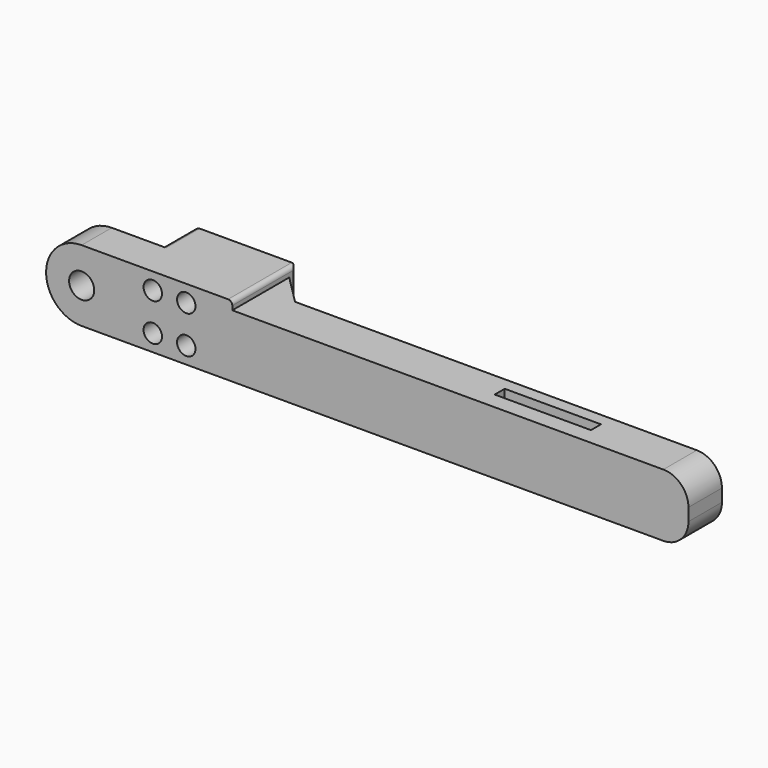
from build123d import *

# Parameters (mm, degrees)
CYLINDER012_R          = 2.2
CYLINDER012_DEPTH      = 26
CYLINDER012_ROLL_ANGLE = -90
ARRAY001_X_COUNT       = 2
ARRAY001_X_PITCH       = 8
ARRAY001_Z_COUNT       = 2
ARRAY001_Z_PITCH       = 9
BOX015_W               = 23
BOX015_H               = 3
BOX015_DEPTH           = 20
BOX011_W               = 130
BOX011_H               = 10
BOX011_DEPTH           = 15
SKETCH003_R            = 3
PAD003_DEPTH           = 9
FILLET003_R            = 1
BOX013_W               = 24
BOX013_H               = 10
BOX013_DEPTH           = 17
FILLET_R               = 1
CHAMFER_SIZE           = 7
FILLET004_R            = 6


with BuildPart() as obj1:
    # Cylinder012 → Cylinder012 (new body)
    with BuildSketch(Plane.XY):
        Circle(CYLINDER012_R)
    extrude(amount=CYLINDER012_DEPTH)


with BuildPart() as obj1_1:
    # Cylinder012 roll: moved
    add(obj1.part.rotate(Axis((0, 0, 0), (1, 0, 0)), CYLINDER012_ROLL_ANGLE))


with BuildPart() as obj1_2:
    # Cylinder012 placement: moved
    add(obj1_1.part.moved(Location((202, 0, 4))))

    # Array001 X: obj1_2


with BuildPart() as obj1_3:
    add(obj1_2.part)
    with Locations(*[(i * ARRAY001_X_PITCH, 0, 0) for i in range(1, ARRAY001_X_COUNT)]):
        add(obj1_2.part)

    # Array001 Z: obj1_2


with BuildPart() as obj1_4:
    add(obj1_3.part)
    with Locations(*[(0, 0, i * ARRAY001_Z_PITCH) for i in range(1, ARRAY001_Z_COUNT)]):
        add(obj1_3.part)


with BuildPart() as obj2:
    # Box015 → Box015 (new body)
    with BuildSketch(Plane(origin=(280.5, 5, 0), x_dir=(1, 0, 0), z_dir=(0, 0, 1))):
        with Locations((11.5, 1.5)):
            Rectangle(BOX015_W, BOX015_H)
    extrude(amount=BOX015_DEPTH)


with BuildPart() as base_tibia:
    # Box011 → Box011 (new body)
    with BuildSketch(Plane(origin=(200, 1.5, 0), x_dir=(1, 0, 0), z_dir=(0, 0, 1))):
        with Locations((65, 5)):
            Rectangle(BOX011_W, BOX011_H)
    extrude(amount=BOX011_DEPTH)


with BuildPart() as obj3:
    # Sketch003 → Pad003 (new body)
    with BuildSketch(Plane(origin=(221, 10.5, 0), x_dir=(1, 0, 0), z_dir=(0, -1, 0))):
        with BuildLine():
            Line((0, 17), (-36, 17))
            ThreePointArc((-36, 17), (-44.500015, 8.5), (-36, 0))
            Line((-36, 0), (0, 0))
            Line((0, 0), (0, 17))
        make_face()
        with Locations((-36.000015, 8.5)):
            Circle(SKETCH003_R, mode=Mode.SUBTRACT)
    extrude(amount=PAD003_DEPTH)

    # Fillet003
    fillet003_edges = [obj3.edges().sort_by_distance(p)[0] for p in [
        (221, 6, 17),
        (221, 6, 0),
    ]]
    fillet(fillet003_edges, radius=FILLET003_R)

    # Fusion008: union Base_tibia
    add(base_tibia.part)


with BuildPart() as obj3_1:
    # Fusion008 placement: moved
    add(obj3.part.moved(Location((0, -0.5, 0))))

    # Cut006: cut obj2
    add(obj2.part, mode=Mode.SUBTRACT)


with BuildPart() as tibia_izquierda_full:
    # Box013 → Box013 (new body)
    with BuildSketch(Plane(origin=(197, 10, 0), x_dir=(1, 0, 0), z_dir=(0, 0, 1))):
        with Locations((12, 5)):
            Rectangle(BOX013_W, BOX013_H)
    extrude(amount=BOX013_DEPTH)

    # Fillet
    fillet_edges = [tibia_izquierda_full.edges().sort_by_distance(p)[0] for p in [
        (197, 15, 17),
        (197, 15, 0),
        (221, 15, 17),
        (221, 20, 8.5),
    ]]
    fillet(fillet_edges, radius=FILLET_R)

    # Fusion009003008: union obj3
    add(obj3_1.part)

    # Chamfer
    chamfer_edges = [tibia_izquierda_full.edges().sort_by_distance(p)[0] for p in [
        (221, 11, 7.5),
    ]]
    chamfer(chamfer_edges, length=CHAMFER_SIZE)

    # Cut007: cut obj1
    add(obj1_4.part, mode=Mode.SUBTRACT)

    # Fillet004
    fillet004_edges = [tibia_izquierda_full.edges().sort_by_distance(p)[0] for p in [
        (330, 6, 0),
        (330, 6, 15),
    ]]
    fillet(fillet004_edges, radius=FILLET004_R)


solid = tibia_izquierda_full.part
